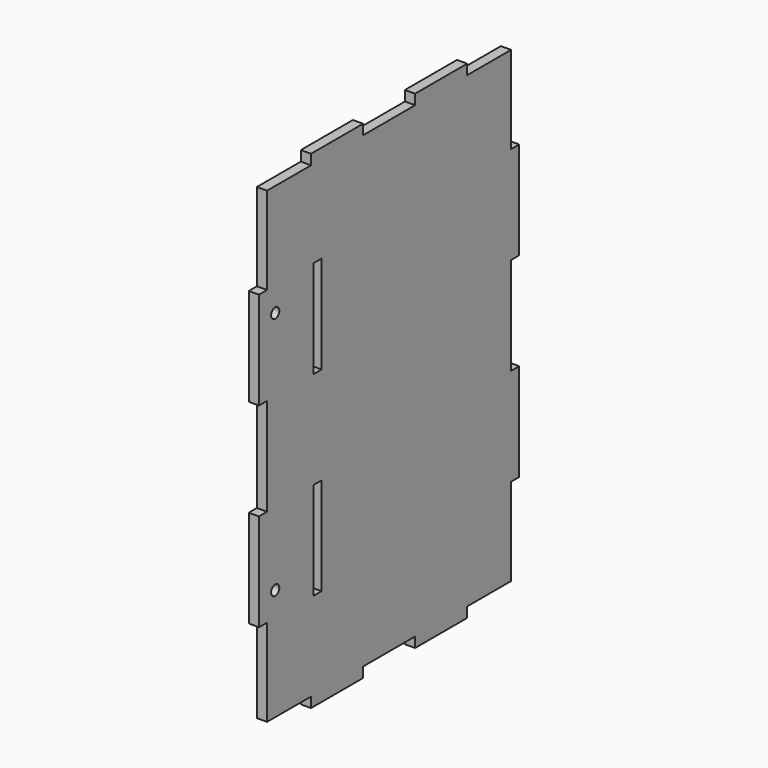
from build123d import *

# Parameters (mm, degrees)
F0_R     = 1.5875
F0_W     = 3.175
F0_H     = 30.48
F1_DEPTH = 3.175


with BuildPart() as f1:
    # F0 (on Right) → F1 (new body)
    with BuildSketch(Plane.YZ):
        Polygon((92.284611, 102.882724), (92.284611, 99.707724), (75.139611, 99.707724), (75.139611, 72.402724), (71.964611, 72.402724), (71.964611, 41.922724), (75.139611, 41.922724), (75.139611, 11.442724), (71.964611, 11.442724), (71.964611, -19.037276), (75.139611, -19.037276), (75.139611, -46.342276), (92.284611, -46.342276), (92.284611, -49.517276), (112.604611, -49.517276), (112.604611, -46.342276), (132.924611, -46.342276), (132.924611, -49.517276), (153.244611, -49.517276), (153.244611, -46.342276), (170.389611, -46.342276), (170.389611, -19.037276), (173.564611, -19.037276), (173.564611, 11.442724), (170.389611, 11.442724), (170.389611, 41.922724), (173.564611, 41.922724), (173.564611, 72.402724), (170.389611, 72.402724), (170.389611, 99.707724), (153.244611, 99.707724), (153.244611, 102.882724), (132.924611, 102.882724), (132.924611, 99.707724), (112.604611, 99.707724), (112.604611, 102.882724), align=None)
        with Locations((78.314611, -11.417276)):
            Circle(F0_R, mode=Mode.SUBTRACT)
        with Locations((94.786511, -3.797276)):
            Rectangle(F0_W, F0_H, mode=Mode.SUBTRACT)
        with Locations((78.314611, 64.782724)):
            Circle(F0_R, mode=Mode.SUBTRACT)
        with Locations((94.786511, 57.162724)):
            Rectangle(F0_W, F0_H, mode=Mode.SUBTRACT)
    extrude(amount=F1_DEPTH)


solid = f1.part
